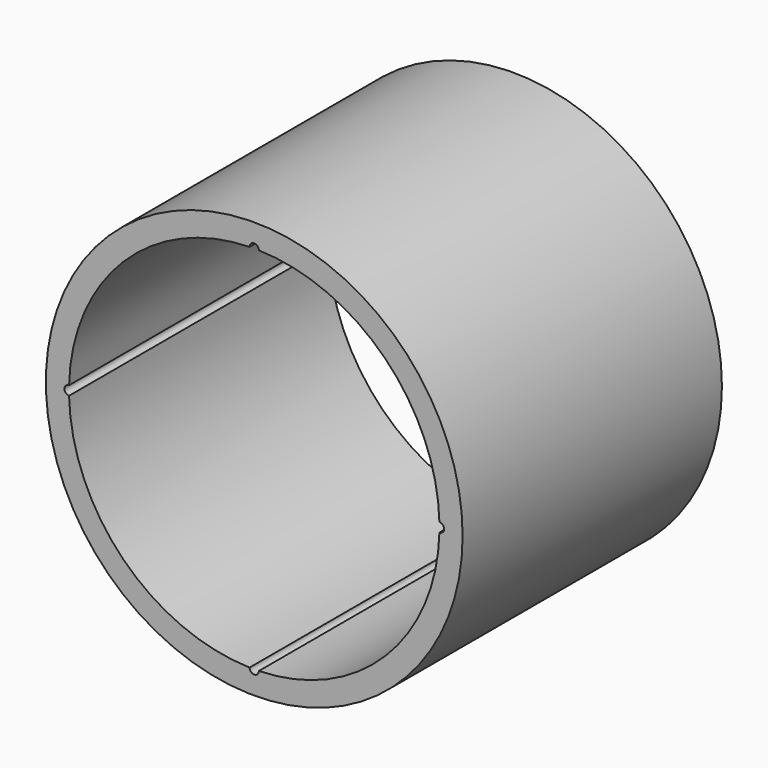
from build123d import *

# Parameters (mm, degrees)
F0_R     = 45
F1_DEPTH = 35


with BuildPart() as f1:
    # F0 (on Front) → F1 (new body, symmetric)
    with BuildSketch(Plane.XZ):
        Circle(F0_R)
        with BuildLine():
            ThreePointArc((0.999922, 39.9875), (28.284271, 28.284271), (39.9875, 0.999922))
            ThreePointArc((39.9875, 0.999922), (40.702673, 0.711512), (41, 0))
            ThreePointArc((41, 0), (40.702673, -0.711512), (39.9875, -0.999922))
            ThreePointArc((39.9875, -0.999922), (28.284271, -28.284271), (0.999922, -39.9875))
            ThreePointArc((0.999922, -39.9875), (0.99998, -39.99375), (1, -40))
            ThreePointArc((1, -40), (-0.00625, -40.99998), (-0.999922, -39.9875))
            ThreePointArc((-0.999922, -39.9875), (-28.284271, -28.284271), (-39.9875, -0.999922))
            ThreePointArc((-39.9875, -0.999922), (-41, 0), (-39.9875, 0.999922))
            ThreePointArc((-39.9875, 0.999922), (-28.284271, 28.284271), (-0.999922, 39.9875))
            ThreePointArc((-0.999922, 39.9875), (-0.00625, 40.99998), (1, 40))
            ThreePointArc((1, 40), (0.99998, 39.99375), (0.999922, 39.9875))
        make_face(mode=Mode.SUBTRACT)
    extrude(amount=F1_DEPTH, both=True)


solid = f1.part
